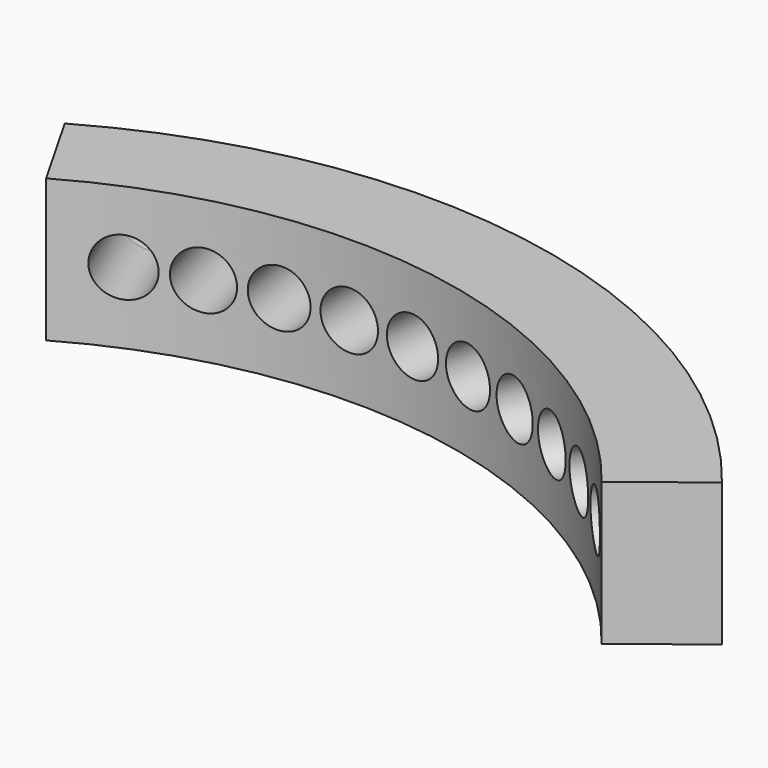
from build123d import *

# Parameters (mm, degrees)
CYLINDER001_R               = 1
CYLINDER001_DEPTH           = 5
ARRAY001_COUNT              = 10
ARRAY001_ANGLE              = -66.734026
ARRAY001_PLACEMENT_ANGLE    = 22.8
CYLINDER002_W               = 32
CYLINDER002_H               = 10
CYLINDER002_ANGLE           = 81.734026
CYLINDER002_PLACEMENT_ANGLE = 45
TUBE_R                      = 21.292893
TUBE_R_2                    = 18
TUBE_DEPTH                  = 5
COMMON_PLACEMENT_ANGLE      = 7


with BuildPart() as contact001:
    # Cylinder001 → Cylinder001 (new body)
    with BuildSketch(Plane(origin=(0, 21, 1), x_dir=(1, 0, 0), z_dir=(0, -1, 0))):
        Circle(CYLINDER001_R)
    extrude(amount=CYLINDER001_DEPTH)


with BuildPart() as lenssidecontacts:
    # Sphere → Sphere (revolve)
    with BuildSketch(Plane(origin=(0, 21, 1), x_dir=(1, 0, 0), z_dir=(0, -1, 0))):
        with BuildLine():
            ThreePointArc((0, -1), (1, 0), (0, 1))
            Line((0, 1), (0, -1))
        make_face()
    revolve(axis=Axis((0, 21, 1), (0, 0, 1)))

    # Fusion001: union Contact001
    add(contact001.part)

    # Array001: LensSideContacts ×10 about axis
    array001_axis = Axis((0, 0, 0), (0, 0, 1))


with BuildPart() as lenssidecontacts_1:
    add(lenssidecontacts.part)
    for i in range(1, ARRAY001_COUNT):
        add(lenssidecontacts.part.rotate(array001_axis, i * ARRAY001_ANGLE / (ARRAY001_COUNT - 1)))


with BuildPart() as lenssidecontacts_2:
    # Array001 placement: moved
    add(lenssidecontacts_1.part.rotate(Axis((0, 0, 0), (0, 0, 1)), ARRAY001_PLACEMENT_ANGLE))


with BuildPart() as cylinder:
    # Cylinder002 → Cylinder002 (revolve)
    with BuildSketch(Plane.XZ):
        with Locations((16, 5)):
            Rectangle(CYLINDER002_W, CYLINDER002_H)
    revolve(axis=Axis((0, 0, 0), (0, 0, 1)), revolution_arc=CYLINDER002_ANGLE)


with BuildPart() as cylinder_1:
    # Cylinder002 placement: moved
    add(cylinder.part.moved(Location((0, 0, -3))).rotate(Axis((0, 0, -3), (0, 0, 1)), CYLINDER002_PLACEMENT_ANGLE))


with BuildPart() as cut:
    # Tube → Tube (new body)
    with BuildSketch(Plane.XY.offset(-1.5)):
        Circle(TUBE_R)
        Circle(TUBE_R_2, mode=Mode.SUBTRACT)
    extrude(amount=TUBE_DEPTH)

    # Common: intersect Cylinder
    add(cylinder_1.part, mode=Mode.INTERSECT)


with BuildPart() as cut_1:
    # Common placement: moved
    add(cut.part.rotate(Axis((0, 0, 0), (0, 0, -1)), COMMON_PLACEMENT_ANGLE))

    # Cut: cut LensSideContacts
    add(lenssidecontacts_2.part, mode=Mode.SUBTRACT)


solid = cut_1.part
